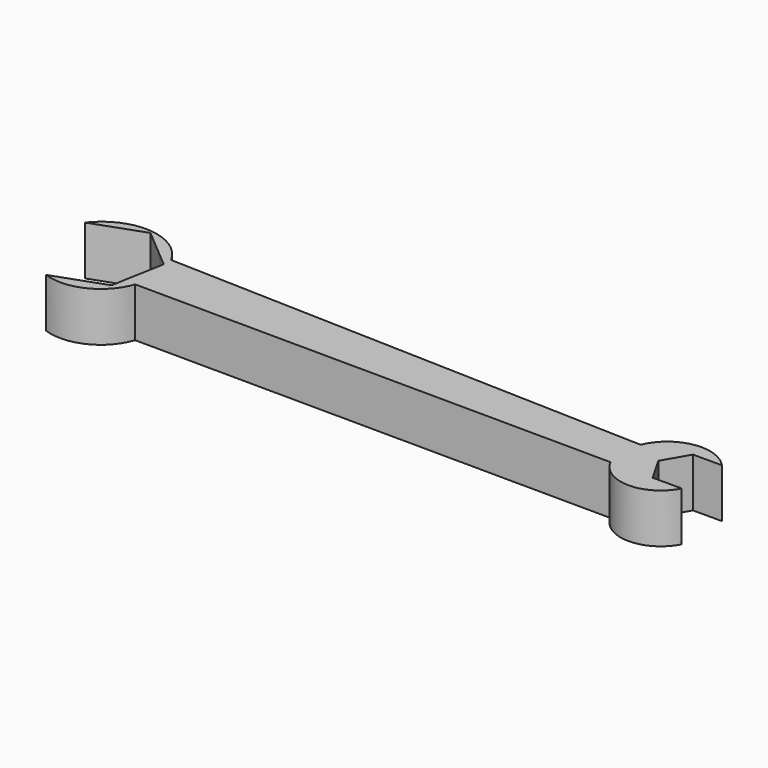
from build123d import *

# Parameters (mm, degrees)
F1_DEPTH = 10


with BuildPart() as f1:
    # F0 (on Top) → F1 (new body)
    with BuildSketch(Plane.XY):
        with BuildLine():
            Line((-50.127081, -4.50852), (-50.598486, -7.104919))
            Line((-50.598486, -7.104919), (-60.941839, -10.810295))
            ThreePointArc((-60.941839, -10.810295), (-53.083798, -10.401258), (-47.853804, -4.522205))
            Line((-47.853804, -4.522205), (-50.127081, -4.50852))
        make_face()
        with BuildLine():
            Line((-48.635759, 3.705376), (-50.127081, -4.50852))
            Line((-50.127081, -4.50852), (-47.853804, -4.522205))
            Line((-47.853804, -4.522205), (49.269494, -5.106865))
            ThreePointArc((49.269494, -5.106865), (56.519831, -9.537289), (63.770169, -5.106865))
            Line((63.770169, -5.106865), (57.87327, -5.106865))
            Line((57.87327, -5.106865), (54.92482, 0))
            Line((54.92482, 0), (57.87327, 5.106865))
            Line((57.87327, 5.106865), (63.770169, 5.106865))
            ThreePointArc((63.770169, 5.106865), (55.816461, 7.824516), (49.269494, 2.553432))
            Line((49.269494, 2.553432), (-48.635759, 5.602518))
            Line((-48.635759, 5.602518), (-50.958878, 5.674868))
            Line((-50.958878, 5.674868), (-48.635759, 3.705376))
        make_face()
        with BuildLine():
            Line((-57.016386, 10.810295), (-50.958878, 5.674868))
            Line((-50.958878, 5.674868), (-48.635759, 5.602518))
            ThreePointArc((-48.635759, 5.602518), (-57.590649, 11.427297), (-67.359739, 7.104919))
            Line((-67.359739, 7.104919), (-57.016386, 10.810295))
        make_face()
        with BuildLine():
            Line((-48.635759, 3.705376), (-50.127081, -4.50852))
            Line((-50.127081, -4.50852), (-47.853804, -4.522205))
            Line((-47.853804, -4.522205), (49.269494, -5.106865))
            ThreePointArc((49.269494, -5.106865), (56.519831, -9.537289), (63.770169, -5.106865))
            Line((63.770169, -5.106865), (57.87327, -5.106865))
            Line((57.87327, -5.106865), (54.92482, 0))
            Line((54.92482, 0), (57.87327, 5.106865))
            Line((57.87327, 5.106865), (63.770169, 5.106865))
            ThreePointArc((63.770169, 5.106865), (55.816461, 7.824516), (49.269494, 2.553432))
            Line((49.269494, 2.553432), (-48.635759, 5.602518))
            Line((-48.635759, 5.602518), (-50.958878, 5.674868))
            Line((-50.958878, 5.674868), (-48.635759, 3.705376))
        make_face()
    extrude(amount=F1_DEPTH)


solid = f1.part
